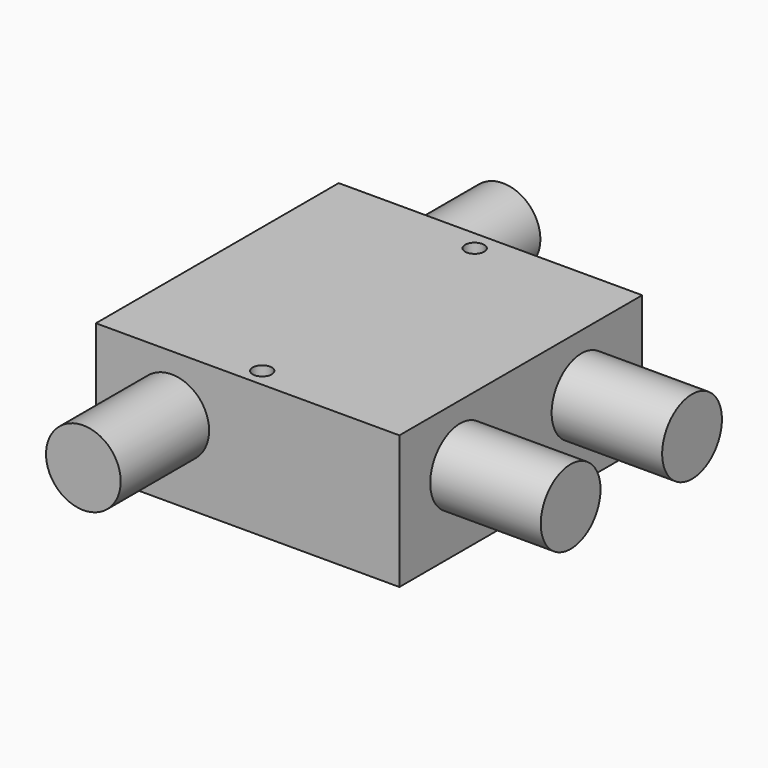
from build123d import *

# Parameters (mm, degrees)
F0_W      = 50.8
F0_H      = 50.8
F1_DEPTH  = 22.35
F3_R      = 6.25
F4_DEPTH  = 18.5
F5_R      = 6.25
F6_DEPTH  = 18.5
F7_R      = 6.25
F8_DEPTH  = 18.5
F9_R      = 1.59
F10_DEPTH = 22.351


with BuildPart() as f1:
    # F0 (on Top) → F1 (new body)
    with BuildSketch(Plane.XY):
        Rectangle(F0_W, F0_H)
    extrude(amount=F1_DEPTH)

    # F9 (on face) → F10 (cut, through all)
    with BuildSketch(Plane.XY.offset(22.35)):
        with Locations((0, 22.1)):
            Circle(F9_R)
        with Locations((0, -22.35)):
            Circle(F9_R)
    extrude(amount=-F10_DEPTH, mode=Mode.SUBTRACT)


with BuildPart() as f4:
    # F3 (on face) → F4 (new body)
    with BuildSketch(Plane.YZ.offset(25.4)):
        with Locations((-12.7, 12.7)):
            Circle(F3_R)
    extrude(amount=F4_DEPTH)


with BuildPart() as f4b:
    # F3 (on face) → F4, piece 2 (new body)
    with BuildSketch(Plane.YZ.offset(25.4)):
        with Locations((12.7, 12.7)):
            Circle(F3_R)
    extrude(amount=F4_DEPTH)


with BuildPart() as f6:
    # F5 (on face) → F6 (new body)
    with BuildSketch(Plane.XZ.offset(25.4)):
        with Locations((-12.7, 12.7)):
            Circle(F5_R)
    extrude(amount=F6_DEPTH)


with BuildPart() as f8:
    # F7 (on face) → F8 (new body)
    with BuildSketch(Plane(origin=(0, 25.4, 0), x_dir=(-1, 0, 0), z_dir=(0, 1, 0))):
        with Locations((12.7, 12.7)):
            Circle(F7_R)
    extrude(amount=F8_DEPTH)


solid = Compound([f1.part, f4.part, f4b.part, f6.part, f8.part])
